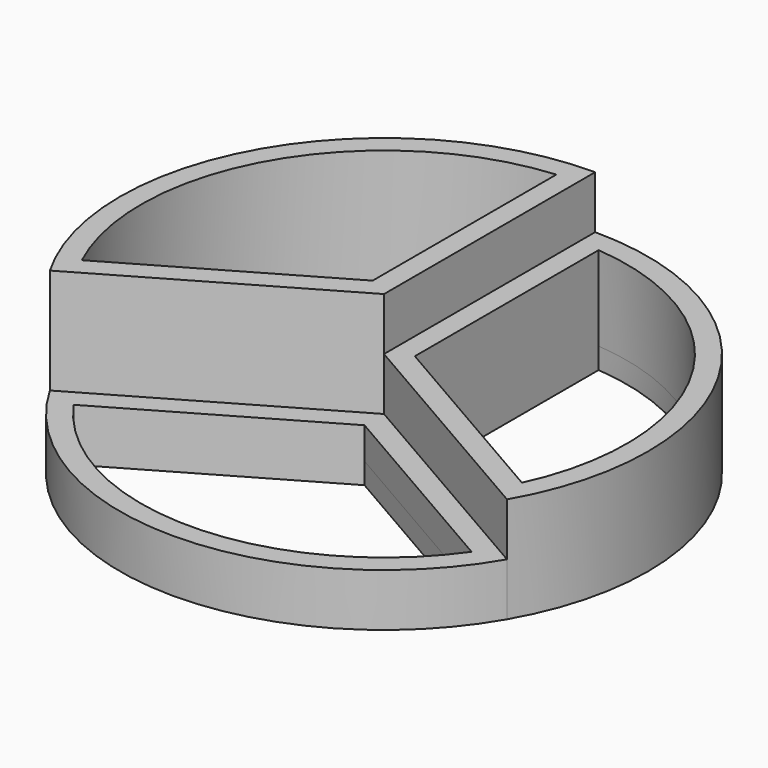
from build123d import *

# Parameters (mm, degrees)
F1_DEPTH = 15
F2_DEPTH = 10
F3_DEPTH = 5
F4_T     = -2
F4_2_T   = -2
F4_3_T   = -2
F5_DEPTH = 25


with BuildPart() as f1:
    # F0 (on Top) → F1 (new body)
    with BuildSketch(Plane.XY):
        with BuildLine():
            Line((0, 0), (0, 25))
            ThreePointArc((0, 25), (-21.6506350946, 12.5), (-21.6506350946, -12.5))
            Line((-21.6506350946, -12.5), (0, 0))
        make_face()
    extrude(amount=F1_DEPTH)

    # F4
    f4_openings = [f1.faces().sort_by_distance(p)[0] for p in [
        (-11.936621, 6.891611, 15),
    ]]
    offset(amount=F4_T, openings=f4_openings)


with BuildPart() as f2:
    # F0 (on Top) → F2 (new body)
    with BuildSketch(Plane.XY):
        with BuildLine():
            ThreePointArc((21.6506350946, -12.5), (24.1481456572, -6.4704761276), (25, 0))
            ThreePointArc((25, 0), (17.6776695297, 17.6776695297), (0, 25))
            Line((0, 25), (0, 0))
            Line((0, 0), (21.6506350946, -12.5))
        make_face()
    extrude(amount=F2_DEPTH)

    # F4#2
    f4_2_openings = [f2.faces().sort_by_distance(p)[0] for p in [
        (11.936621, 6.891611, 10),
    ]]
    offset(amount=F4_2_T, openings=f4_2_openings)


with BuildPart() as f3:
    # F0 (on Top) → F3 (new body)
    with BuildSketch(Plane.XY):
        with BuildLine():
            ThreePointArc((-21.6506350946, -12.5), (0, -25), (21.6506350946, -12.5))
            Line((21.6506350946, -12.5), (0, 0))
            Line((0, 0), (-21.6506350946, -12.5))
        make_face()
    extrude(amount=F3_DEPTH)

    # F4#3
    f4_3_openings = [f3.faces().sort_by_distance(p)[0] for p in [
        (0, -13.783222, 5),
    ]]
    offset(amount=F4_3_T, openings=f4_3_openings)


with BuildPart() as f5_tool:
    # F4_face (on face) → F5 (new body)
    with BuildSketch(Plane(origin=(-11.9733768763, 6.9128323626, 2), x_dir=(1, 0, 0), z_dir=(0, 0, 1))):
        with BuildLine():
            Line((-8.8697579567, -16.6372207924), (9.9733768763, -5.7581318242))
            Line((9.9733768763, -5.7581318242), (9.9733768763, 16.0000461122))
            ThreePointArc((9.9733768763, 16.0000461122), (-7.9452074108, 4.5871676374), (-8.8697579567, -16.6372207924))
        make_face()
        with BuildLine():
            ThreePointArc((32.8165117092, -16.6372207924), (31.8919611633, 4.5871676374), (13.9733768763, 16.0000461122))
            Line((13.9733768763, 16.0000461122), (13.9733768763, -5.7581318242))
            Line((13.9733768763, -5.7581318242), (32.8165117092, -16.6372207924))
        make_face()
        with BuildLine():
            ThreePointArc((-6.8697579567, -20.1013224076), (11.9733768763, -29.9128323626), (30.8165117092, -20.1013224076))
            Line((30.8165117092, -20.1013224076), (11.9733768763, -9.2222334394))
            Line((11.9733768763, -9.2222334394), (-6.8697579567, -20.1013224076))
        make_face()
    extrude(amount=-F5_DEPTH)


with BuildPart() as f1_1:
    add(f1.part)

    # F5: cut by f5_tool
    add(f5_tool.part, mode=Mode.SUBTRACT)


with BuildPart() as f2_1:
    add(f2.part)

    # F5: cut by f5_tool
    add(f5_tool.part, mode=Mode.SUBTRACT)


with BuildPart() as f3_1:
    add(f3.part)

    # F5: cut by f5_tool
    add(f5_tool.part, mode=Mode.SUBTRACT)


solid = Compound([f1_1.part, f2_1.part, f3_1.part])
